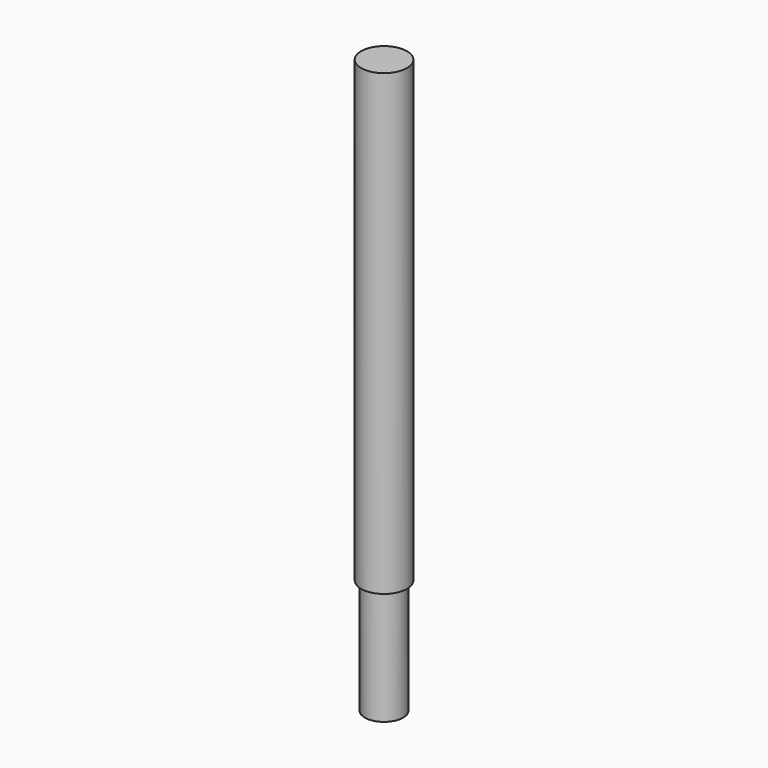
from build123d import *

# Parameters (mm, degrees)
F0_R     = 25
F1_DEPTH = 750
F2_START = 150
F0_R_2   = 30
F2_DEPTH = 600


with BuildPart() as f1:
    # F0 (on Top) → F1 (new body)
    with BuildSketch(Plane.XY):
        Circle(F0_R)
    extrude(amount=F1_DEPTH)

    # F0 (on Top) → F2 (join)
    with BuildSketch(Plane.XY.offset(F2_START)):
        Circle(F0_R_2)
        Circle(F0_R, mode=Mode.SUBTRACT)
    extrude(amount=F2_DEPTH)


solid = f1.part
